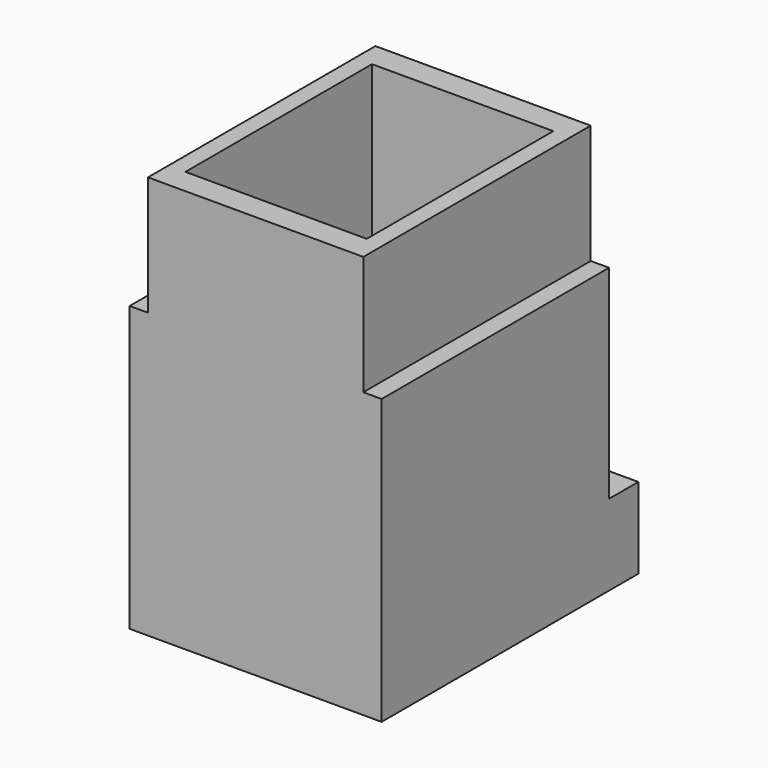
from build123d import *

# Parameters (mm, degrees)
F0_W      = 14.8
F0_H      = 16.7
F0_W_2    = 11.8
F0_H_2    = 13.7
F1_DEPTH  = 11.95
F2_W      = 12.65
F2_H      = 16.7
F2_W_2    = 10.65
F2_H_2    = 14.7
F3_DEPTH  = 7
F4_W      = 0.575
F4_H      = 13.7
F5_DEPTH  = 11.95
F6_W      = 0.575
F6_H      = 13.7
F7_DEPTH  = 11.95
F8_W      = 10.65
F8_H      = 0.5
F9_DEPTH  = 7
F10_W     = 10.65
F10_H     = 0.5
F11_DEPTH = 7
F12_W     = 14.8
F12_H     = 18.85
F12_W_2   = 10.65
F12_H_2   = 13.7
F13_DEPTH = 4.75


with BuildPart() as f1:
    # F0 (on Top) → F1 (new body)
    with BuildSketch(Plane.XY):
        Rectangle(F0_W, F0_H)
        Rectangle(F0_W_2, F0_H_2, mode=Mode.SUBTRACT)
    extrude(amount=F1_DEPTH)

    # F2 (on face) → F3 (join)
    with BuildSketch(Plane.XY.offset(11.95)):
        Rectangle(F2_W, F2_H)
        Rectangle(F2_W_2, F2_H_2, mode=Mode.SUBTRACT)
    extrude(amount=F3_DEPTH)

    # F4 (on face) → F5 (join, through all)
    with BuildSketch(Plane(origin=(0, 0, 11.95), x_dir=(1, 0, 0), z_dir=(0, 0, -1))):
        with Locations((-5.6125, 0)):
            Rectangle(F4_W, F4_H)
    extrude(amount=F5_DEPTH)

    # F6 (on face) → F7 (join, through all)
    with BuildSketch(Plane(origin=(0, 0, 11.95), x_dir=(1, 0, 0), z_dir=(0, 0, -1))):
        with Locations((5.6125, 0)):
            Rectangle(F6_W, F6_H)
    extrude(amount=F7_DEPTH)

    # F8 (on face) → F9 (join, through all)
    with BuildSketch(Plane.XY.offset(11.95)):
        with Locations((0, 7.1)):
            Rectangle(F8_W, F8_H)
    extrude(amount=F9_DEPTH)

    # F10 (on face) → F11 (join, through all)
    with BuildSketch(Plane.XY.offset(11.95)):
        with Locations((0, -7.1)):
            Rectangle(F10_W, F10_H)
    extrude(amount=F11_DEPTH)

    # F12 (on face) → F13 (join)
    with BuildSketch(Plane(origin=(0, 0, 0), x_dir=(1, 0, 0), z_dir=(0, 0, -1))):
        with Locations((0, -1.075)):
            Rectangle(F12_W, F12_H)
        Rectangle(F12_W_2, F12_H_2, mode=Mode.SUBTRACT)
    extrude(amount=F13_DEPTH)


solid = f1.part
